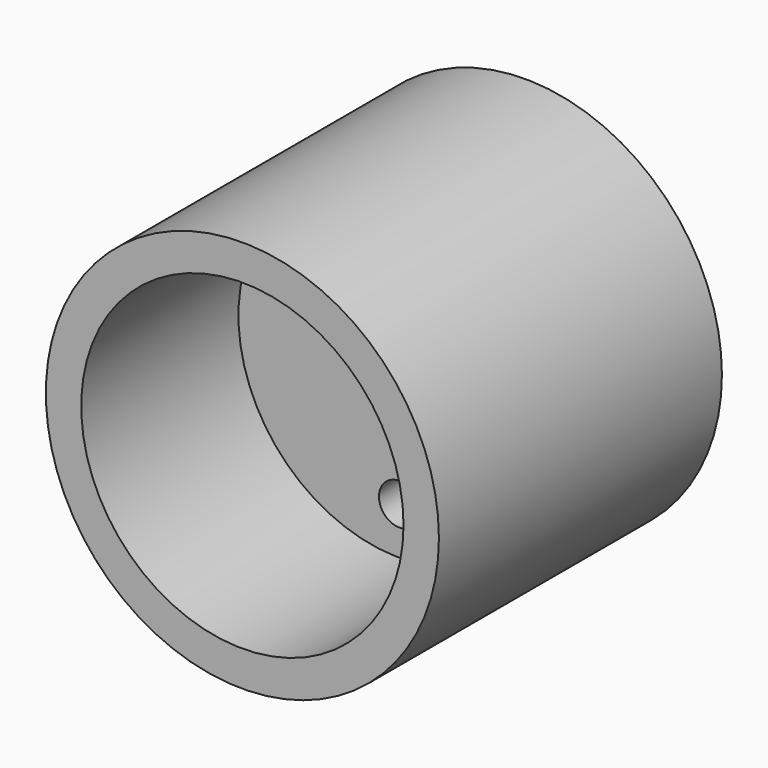
from build123d import *

# Parameters (mm, degrees)
F0_R     = 50
F1_DEPTH = 90
F2_R     = 41
F3_DEPTH = 50
F4_R     = 4
F5_DEPTH = 151
F6_R     = 41
F7_DEPTH = 3
F8_R     = 5.25
F9_DEPTH = 72


with BuildPart() as f1:
    # F0 (on Front) → F1 (new body)
    with BuildSketch(Plane.XZ):
        Circle(F0_R)
    extrude(amount=F1_DEPTH)

    # F2 (on face) → F3 (cut)
    with BuildSketch(Plane.XZ.offset(90)):
        Circle(F2_R)
    extrude(amount=-F3_DEPTH, mode=Mode.SUBTRACT)

    # F4 (on face) → F5 (cut)
    with BuildSketch(Plane(origin=(0, 0, 0), x_dir=(-1, 0, 0), z_dir=(0, 1, 0))):
        Circle(F4_R)
    extrude(amount=-F5_DEPTH, mode=Mode.SUBTRACT)

    # F6 (on face) → F7 (cut)
    with BuildSketch(Plane(origin=(0, 0, 0), x_dir=(-1, 0, 0), z_dir=(0, 1, 0))):
        Circle(F6_R)
    extrude(amount=-F7_DEPTH, mode=Mode.SUBTRACT)

    # F8 (on face) → F9 (cut)
    with BuildSketch(Plane.XZ.offset(40)):
        with Locations((0, 29)):
            Circle(F8_R)
        with Locations((0, -29)):
            Circle(F8_R)
    extrude(amount=-F9_DEPTH, mode=Mode.SUBTRACT)


solid = f1.part
